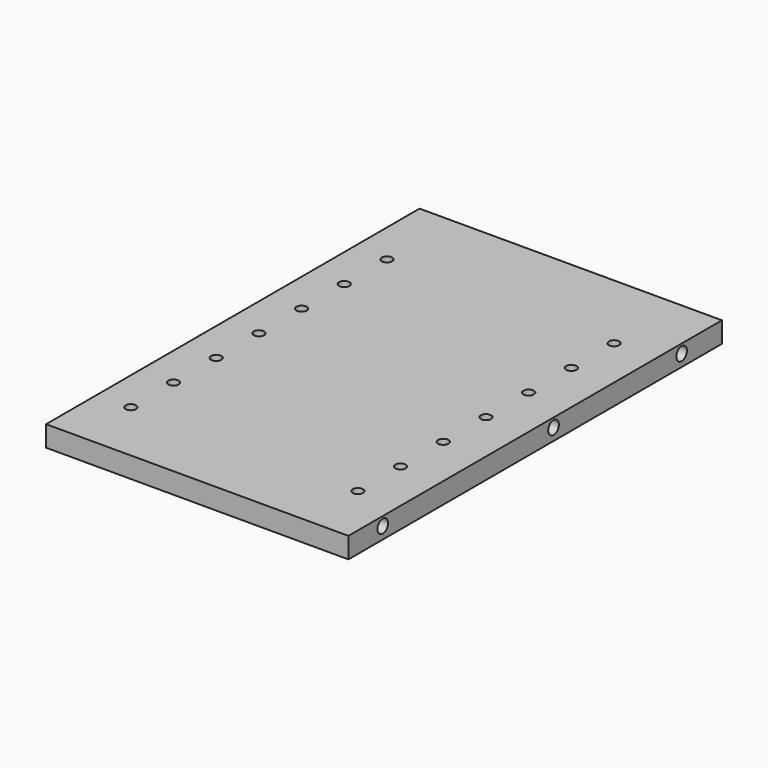
from build123d import *

# Parameters (mm, degrees)
SKETCH042_W             = 102
SKETCH042_H             = 175
PAD011_DEPTH            = 7
SKETCH043_R             = 1.75
POCKET027_DEPTH         = 7.001
SKETCH044_R             = 2.25
POCKET028_DEPTH         = 5
SKETCH045_R             = 2.25
POCKET029_DEPTH         = 5
SKETCH046_W             = 88
SKETCH046_H             = 61
SKETCH046_H_2           = 75.5
POCKET030_DEPTH         = 4
SKETCH047_W             = 186.33641
SKETCH047_H             = 47.448593
POCKET031_DEPTH         = 7.001
BODY010_PLACEMENT_ANGLE = 180


with BuildPart() as part:
    # Sketch042 → Pad011 (new body)
    with BuildSketch(Plane.XY):
        with Locations((51, 87.5)):
            Rectangle(SKETCH042_W, SKETCH042_H)
    extrude(amount=PAD011_DEPTH)

    # Sketch043 (on Face5 of Pad011) → Pocket027 (cut, through all)
    with BuildSketch(Plane(origin=(0, 0, 0), x_dir=(1, 0, 0), z_dir=(0, 0, -1))):
        with Locations((90.6, -129.5)):
            Circle(SKETCH043_R)
        with Locations((14, -129.5)):
            Circle(SKETCH043_R)
        with Locations((90.6, -111.5)):
            Circle(SKETCH043_R)
        with Locations((14, -111.5)):
            Circle(SKETCH043_R)
        with Locations((90.6, -93.5)):
            Circle(SKETCH043_R)
        with Locations((14, -93.5)):
            Circle(SKETCH043_R)
        with Locations((14, -75.5)):
            Circle(SKETCH043_R)
        with Locations((90.6, -75.5)):
            Circle(SKETCH043_R)
        with Locations((90.6, -57.5)):
            Circle(SKETCH043_R)
        with Locations((90.6, -39.5)):
            Circle(SKETCH043_R)
        with Locations((14, -39.5)):
            Circle(SKETCH043_R)
        with Locations((14, -21.5)):
            Circle(SKETCH043_R)
        with Locations((90.6, -21.5)):
            Circle(SKETCH043_R)
        with Locations((14, -57.5)):
            Circle(SKETCH043_R)
    extrude(amount=-POCKET027_DEPTH, mode=Mode.SUBTRACT)

    # Sketch044 (on Face1 of Pocket027) → Pocket028 (cut)
    with BuildSketch(Plane(origin=(0, 0, 0), x_dir=(0, -1, 0), z_dir=(-1, 0, 0))):
        with Locations((-14.5, 3)):
            Circle(SKETCH044_R)
        with Locations((-86.5, 3)):
            Circle(SKETCH044_R)
        with Locations((-140.5, 3)):
            Circle(SKETCH044_R)
    extrude(amount=-POCKET028_DEPTH, mode=Mode.SUBTRACT)

    # Sketch045 (on Face9 of Pocket028) → Pocket029 (cut)
    with BuildSketch(Plane.YZ.offset(102)):
        with Locations((14.5, 3)):
            Circle(SKETCH045_R)
        with Locations((86.5, 3)):
            Circle(SKETCH045_R)
        with Locations((140.5, 3)):
            Circle(SKETCH045_R)
    extrude(amount=-POCKET029_DEPTH, mode=Mode.SUBTRACT)

    # Sketch046 (on Face4 of Pocket029) → Pocket030 (cut)
    with BuildSketch(Plane.XY.offset(7)):
        with Locations((51, 120)):
            Rectangle(SKETCH046_W, SKETCH046_H)
        with Locations((51, 44.75)):
            Rectangle(SKETCH046_W, SKETCH046_H_2)
    extrude(amount=-POCKET030_DEPTH, mode=Mode.SUBTRACT)

    # Sketch047 (on Face4 of Pocket030) → Pocket031 (cut, through all)
    with BuildSketch(Plane.XY.offset(7)):
        with Locations((50.088417, 181.224296)):
            Rectangle(SKETCH047_W, SKETCH047_H)
    extrude(amount=-POCKET031_DEPTH, mode=Mode.SUBTRACT)


with BuildPart() as part_1:
    # Body010 placement: moved
    add(part.part.moved(Location((102, 0, 7))).rotate(Axis((102, 0, 7), (0, 1, 0)), BODY010_PLACEMENT_ANGLE))


solid = part_1.part
